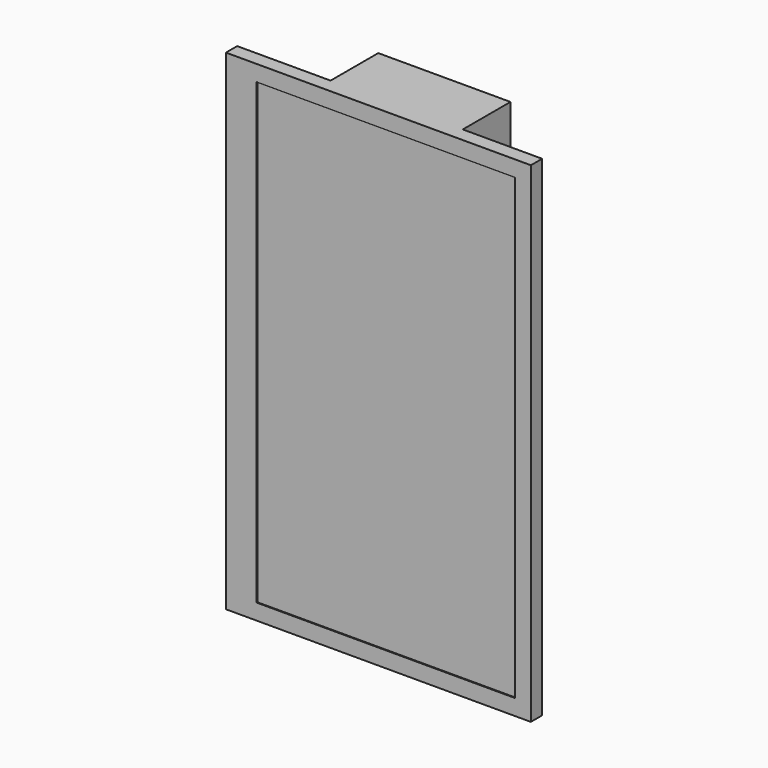
from build123d import *

# Parameters (mm, degrees)
F2_W     = 346
F2_H     = 556
F3_DEPTH = 15
F4_W     = 150
F4_H     = 556
F5_DEPTH = 67.6
F7_D     = 5
F7_DEPTH = 5
F7_TIP   = 1.5021515476
F8_W     = 346
F8_H     = 556
F8_W_2   = 293
F8_H_2   = 520
F9_DEPTH = 1


with BuildPart() as f3:
    # F2 (on Front) → F3 (new body)
    with BuildSketch(Plane.XZ):
        with Locations((-28.0021212956, 30.1194461733)):
            Rectangle(F2_W, F2_H)
    extrude(amount=-F3_DEPTH)

    # F4 (on face) → F5 (join)
    with BuildSketch(Plane(origin=(0, 15, 0), x_dir=(-1, 0, 0), z_dir=(0, 1, 0))):
        with Locations((20.0021212956, 30.1194461733)):
            Rectangle(F4_W, F4_H)
    extrude(amount=F5_DEPTH)

    # F7
    with Locations(Plane(origin=(0, 82.6, 0), x_dir=(-1, 0, 0), z_dir=(0, 1, 0))):
        with Locations((-28.9978787044, 92.1194461733), (71.0021212956, 92.1194461733), (71.0021212956, -7.8805538267), (-28.9978787044, -7.8805538267)):
            Hole(F7_D / 2, depth=F7_DEPTH)
            with Locations((0, 0, -(F7_DEPTH + F7_TIP / 2))):  # 118° drill point
                Cone(0, F7_D / 2, F7_TIP, mode=Mode.SUBTRACT)


with BuildPart() as f9:
    # F8 (on face) → F9 (new body)
    with BuildSketch(Plane.XZ):
        with Locations((-28.0021212956, 30.1194461733)):
            Rectangle(F8_W, F8_H)
        with Locations((-19.5021212956, 30.1194461733)):
            Rectangle(F8_W_2, F8_H_2, mode=Mode.SUBTRACT)
    extrude(amount=F9_DEPTH)


solid = Compound([f3.part, f9.part])
